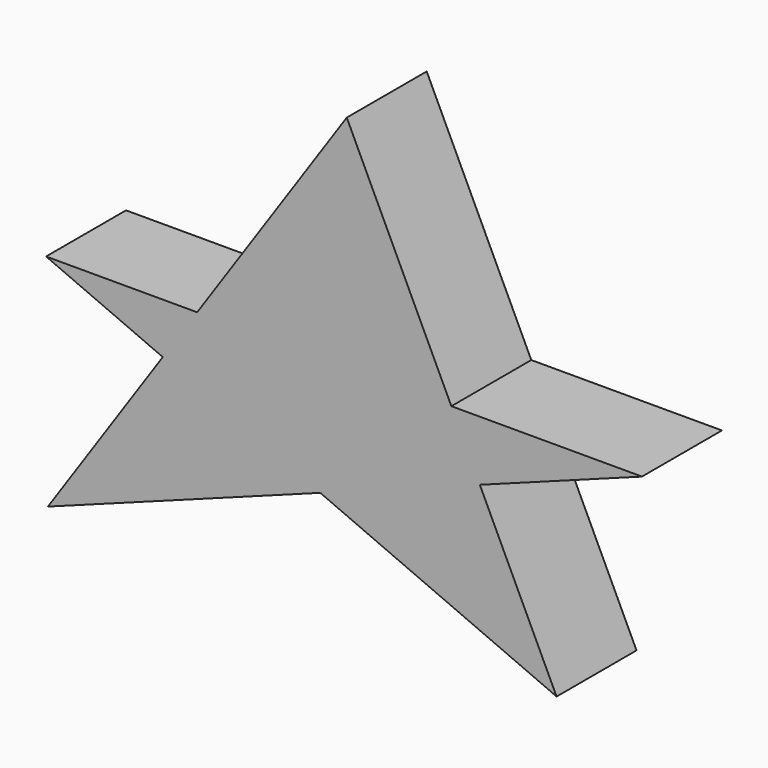
from build123d import *

# Parameters (mm, degrees)
F1_DEPTH = 25.4


with BuildPart() as f1:
    # F0 (on Front) → F1 (new body)
    with BuildSketch(Plane.XZ):
        Polygon((26.5872239345, 0), (0, 55.9367500246), (-38.0231216668, 0), align=None)
        Polygon((75.0454515219, 0), (26.5872239345, 0), (33.8289663218, -15.2358717352), align=None)
        Polygon((-46.7684096297, -12.8654083418), (-38.0231216668, 0), (-76.4309093356, 0), align=None)
        Polygon((53.3400066197, -56.2850683928), (33.8289663218, -15.2358717352), (-6.7330296679, -30.22980839), align=None)
        Polygon((26.5872239345, 0), (-38.0231216668, 0), (-46.7684096297, -12.8654083418), (-6.7330296679, -30.22980839), (33.8289663218, -15.2358717352), align=None)
        Polygon((-6.7330296679, -30.22980839), (-46.7684096297, -12.8654083418), (-75.9690925479, -55.823251605), align=None)
    extrude(amount=F1_DEPTH)


solid = f1.part
